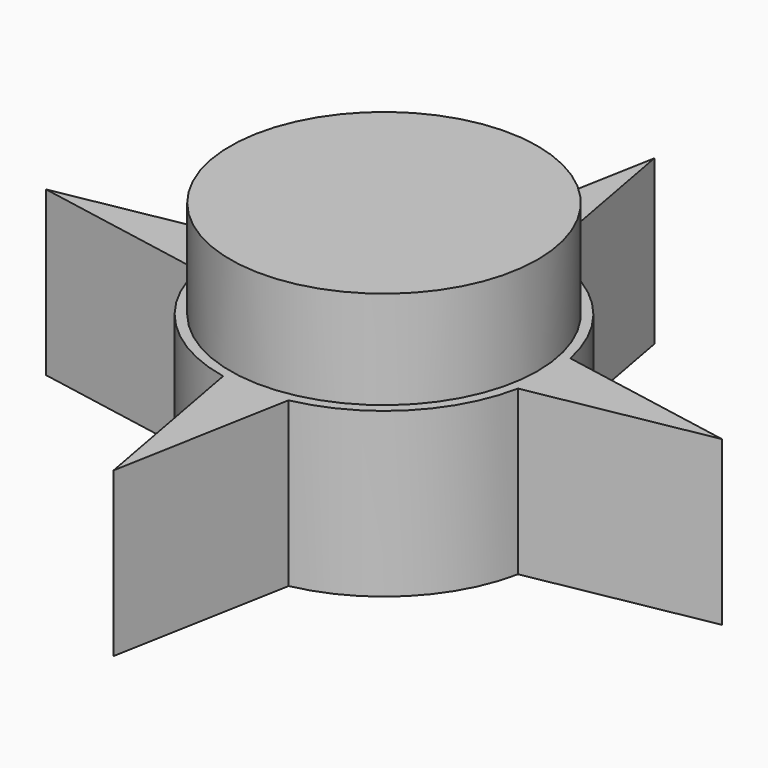
from build123d import *

# Parameters (mm, degrees)
F1_DEPTH = 19.05
F2_R     = 17.907
F3_DEPTH = 30.48


with BuildPart() as f1:
    # F0 (on Top) → F1 (new body)
    with BuildSketch(Plane.XY):
        with BuildLine():
            ThreePointArc((-18.665112, -3.81), (-19.05, 0), (-18.665112, 3.81))
            Line((-18.665112, 3.81), (-39.37, 0))
            Line((-39.37, 0), (-18.665112, -3.81))
        make_face()
        with BuildLine():
            ThreePointArc((18.665112, -3.81), (18.953534, -1.914696), (19.05, 0))
            ThreePointArc((19.05, 0), (18.953534, 1.914696), (18.665112, 3.81))
            ThreePointArc((18.665112, 3.81), (13.470384, 13.470384), (3.81, 18.665112))
            ThreePointArc((3.81, 18.665112), (0, 19.05), (-3.81, 18.665112))
            ThreePointArc((-3.81, 18.665112), (-13.470384, 13.470384), (-18.665112, 3.81))
            ThreePointArc((-18.665112, 3.81), (-19.05, 0), (-18.665112, -3.81))
            ThreePointArc((-18.665112, -3.81), (-13.470384, -13.470384), (-3.81, -18.665112))
            ThreePointArc((-3.81, -18.665112), (0, -19.05), (3.81, -18.665112))
            ThreePointArc((3.81, -18.665112), (13.470384, -13.470384), (18.665112, -3.81))
        make_face()
        with BuildLine():
            Line((0, -39.37), (3.81, -18.665112))
            ThreePointArc((3.81, -18.665112), (0, -19.05), (-3.81, -18.665112))
            Line((-3.81, -18.665112), (0, -39.37))
        make_face()
        with BuildLine():
            ThreePointArc((18.665112, 3.81), (18.953534, 1.914696), (19.05, 0))
            ThreePointArc((19.05, 0), (18.953534, -1.914696), (18.665112, -3.81))
            Line((18.665112, -3.81), (39.37, 0))
            Line((39.37, 0), (18.665112, 3.81))
        make_face()
        with BuildLine():
            ThreePointArc((-3.81, 18.665112), (0, 19.05), (3.81, 18.665112))
            Line((3.81, 18.665112), (0, 39.37))
            Line((0, 39.37), (-3.81, 18.665112))
        make_face()
    extrude(amount=F1_DEPTH)

    # F2 (on Top) → F3 (join)
    with BuildSketch(Plane.XY):
        Circle(F2_R)
    extrude(amount=F3_DEPTH)


solid = f1.part
